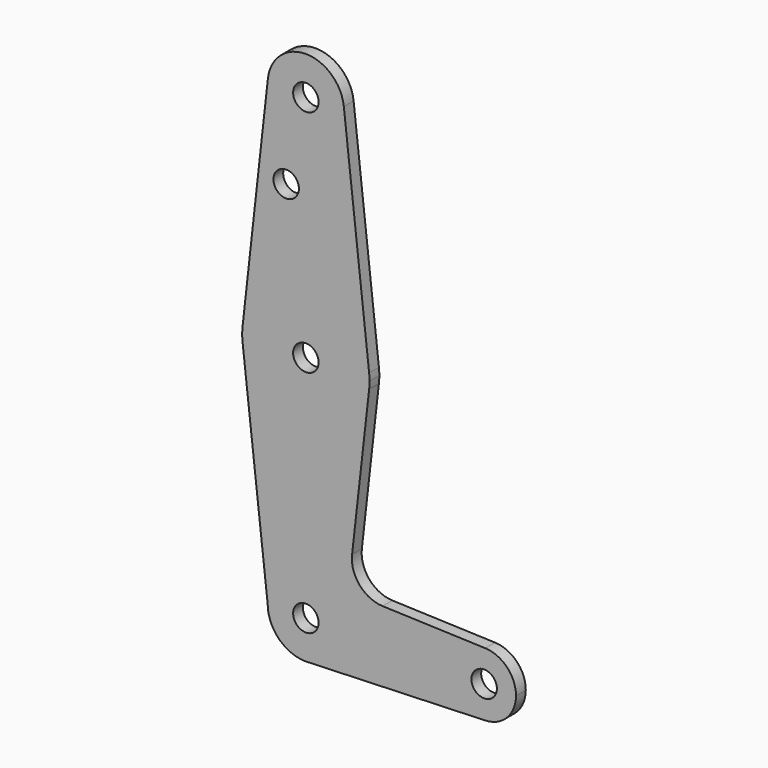
from build123d import *

# Parameters (mm, degrees)
F0_R     = 3.175
F1_DEPTH = 3.048


with BuildPart() as f1:
    # F0 (on Front) → F1 (new body)
    with BuildSketch(Plane.XZ):
        with BuildLine():
            ThreePointArc((-9.466021, 115.358333), (-0.529988, 104.789756), (9.525, 114.3))
            ThreePointArc((9.525, 114.3), (9.510244, 114.829988), (9.466021, 115.358333))
            ThreePointArc((9.466021, 115.358333), (0, 123.825), (-9.466021, 115.358333))
        make_face()
        with Locations((0, 114.3)):
            Circle(F0_R, mode=Mode.SUBTRACT)
        with BuildLine():
            ThreePointArc((9.466021, 115.358333), (9.510244, 114.829988), (9.525, 114.3))
            ThreePointArc((9.525, 114.3), (-0.529988, 104.789756), (-9.466021, 115.358333))
            Line((-9.466021, 115.358333), (-15.776702, 58.913889))
            ThreePointArc((-15.776702, 58.913889), (0, 73.025), (15.776702, 58.913889))
            Line((15.776702, 58.913889), (9.466021, 115.358333))
        make_face()
        with Locations((-4.910686, 93.6752)):
            Circle(F0_R, mode=Mode.SUBTRACT)
        with BuildLine():
            Line((11.520691, 17.680552), (15.776702, 55.386111))
            ThreePointArc((15.776702, 55.386111), (0.0084, 41.275002), (-15.774826, 55.369415))
            Line((-15.774826, 55.369415), (-9.525, 0))
            ThreePointArc((-9.525, 0), (0, 9.525), (9.525, 0))
            ThreePointArc((9.525, 0), (6.970557, -6.491299), (0.677344, -9.500886))
            Line((0.677344, -9.500886), (44.732405, -7.932475))
            ThreePointArc((44.732405, -7.932475), (36.5125, 0), (44.732405, 7.932475))
            Line((44.732405, 7.932475), (19.137867, 8.84367))
            ThreePointArc((19.137867, 8.84367), (13.398885, 11.598159), (11.520691, 17.680552))
        make_face()
        with BuildLine():
            ThreePointArc((15.875, 57.15), (15.850406, 58.033313), (15.776702, 58.913889))
            ThreePointArc((15.776702, 58.913889), (0, 73.025), (-15.776702, 58.913889))
            ThreePointArc((-15.776702, 58.913889), (-15.874998, 57.1416), (-15.774826, 55.369415))
            ThreePointArc((-15.774826, 55.369415), (0.0084, 41.275002), (15.776702, 55.386111))
            ThreePointArc((15.776702, 55.386111), (15.850406, 56.266687), (15.875, 57.15))
        make_face()
        with Locations((0, 57.15)):
            Circle(F0_R, mode=Mode.SUBTRACT)
        with BuildLine():
            ThreePointArc((9.525, 0), (0, 9.525), (-9.525, 0))
            ThreePointArc((-9.525, 0), (-6.735192, -6.735192), (0, -9.525))
            Line((0, -9.525), (0.677344, -9.500886))
            ThreePointArc((0.677344, -9.500886), (6.970557, -6.491299), (9.525, 0))
        make_face()
        Circle(F0_R, mode=Mode.SUBTRACT)
        with BuildLine():
            Line((0.677344, -9.500886), (0, -9.525))
            ThreePointArc((0, -9.525), (0.338886, -9.51897), (0.677344, -9.500886))
        make_face()
        with BuildLine():
            ThreePointArc((52.3875, 0), (50.161633, 5.51191), (44.732405, 7.932475))
            ThreePointArc((44.732405, 7.932475), (36.5125, 0), (44.732405, -7.932475))
            ThreePointArc((44.732405, -7.932475), (50.161633, -5.51191), (52.3875, 0))
        make_face()
        with Locations((44.45, 0)):
            Circle(F0_R, mode=Mode.SUBTRACT)
    extrude(amount=F1_DEPTH)


solid = f1.part
